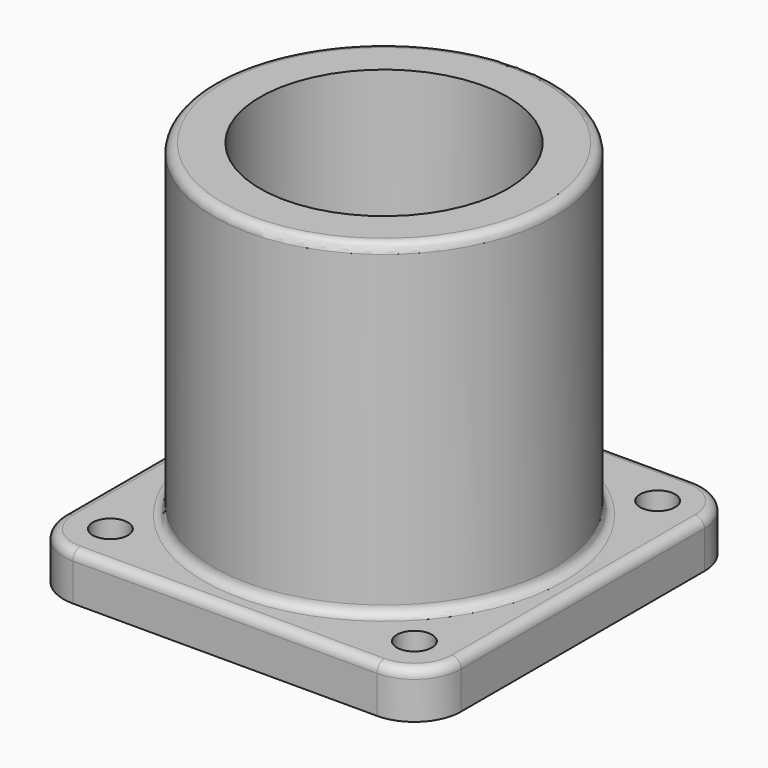
from build123d import *

# Parameters (mm, degrees)
F0_R     = 4.7625
F1_DEPTH = 12.7
F2_R     = 46.355
F2_R_2   = 33.655
F3_DEPTH = 88.9
F4_R     = 2.54


with BuildPart() as f1:
    # F0 (on Top) → F1 (new body)
    with BuildSketch(Plane.XY):
        with BuildLine():
            ThreePointArc((53.975, 41.275), (50.255256, 50.255256), (41.275, 53.975))
            Line((41.275, 53.975), (-41.275, 53.975))
            ThreePointArc((-41.275, 53.975), (-50.255256, 50.255256), (-53.975, 41.275))
            Line((-53.975, 41.275), (-53.975, -41.275))
            ThreePointArc((-53.975, -41.275), (-50.255256, -50.255256), (-41.275, -53.975))
            Line((-41.275, -53.975), (41.275, -53.975))
            ThreePointArc((41.275, -53.975), (50.255256, -50.255256), (53.975, -41.275))
            Line((53.975, -41.275), (53.975, 41.275))
        make_face()
        with Locations((-41.275, -41.275)):
            Circle(F0_R, mode=Mode.SUBTRACT)
        with Locations((41.275, -41.275)):
            Circle(F0_R, mode=Mode.SUBTRACT)
        with Locations((-41.275, 41.275)):
            Circle(F0_R, mode=Mode.SUBTRACT)
        with Locations((41.275, 41.275)):
            Circle(F0_R, mode=Mode.SUBTRACT)
    extrude(amount=F1_DEPTH)

    # F2 (on face) → F3 (join)
    with BuildSketch(Plane.XY.offset(12.7)):
        Circle(F2_R)
        Circle(F2_R_2, mode=Mode.SUBTRACT)
    extrude(amount=F3_DEPTH)

    # F4
    f4_edges = [f1.edges().sort_by_distance(p)[0] for p in [
        (-46.355, 0, 12.7),
        (0, -53.975, 12.7),
        (-46.355, 0, 101.6),
    ]]
    fillet(f4_edges, radius=F4_R)


solid = f1.part
